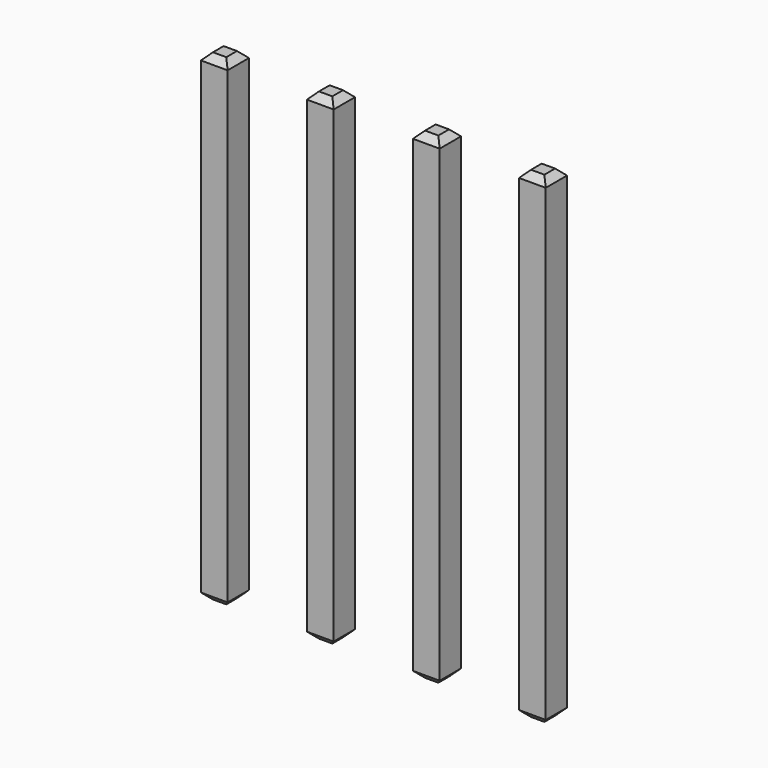
from build123d import *

# Parameters (mm, degrees)
SKETCH213_W       = 0.64
SKETCH213_H       = 11.54
PAD068_DEPTH      = 0.32
PAD068_DEPTH_BACK = 0.32
CHAMFER023_SIZE   = 0.16
ARRAY004_X_COUNT  = 4
ARRAY004_X_PITCH  = 2.54


with BuildPart() as part:
    # Sketch213 → Pad068 (new body, two sides)
    with BuildSketch(Plane.XZ) as pad068_sk:
        with Locations((0, 2.77)):
            Rectangle(SKETCH213_W, SKETCH213_H)
    extrude(amount=PAD068_DEPTH)
    extrude(pad068_sk.sketch, amount=-PAD068_DEPTH_BACK)

    # Chamfer023
    chamfer023_edges = [part.edges().sort_by_distance(p)[0] for p in [
        (0.32, 0, 8.54),
        (-0.32, 0, 8.54),
        (0, 0.32, 8.54),
        (0, -0.32, 8.54),
        (-0.32, 0, -3),
        (0.32, 0, -3),
        (0, 0.32, -3),
        (0, -0.32, -3),
    ]]
    chamfer(chamfer023_edges, length=CHAMFER023_SIZE)

    # Array004 X: part ×4


with BuildPart() as part_1:
    add(part.part)
    with Locations(*[(i * ARRAY004_X_PITCH, 0, 0) for i in range(1, ARRAY004_X_COUNT)]):
        add(part.part)


solid = part_1.part
